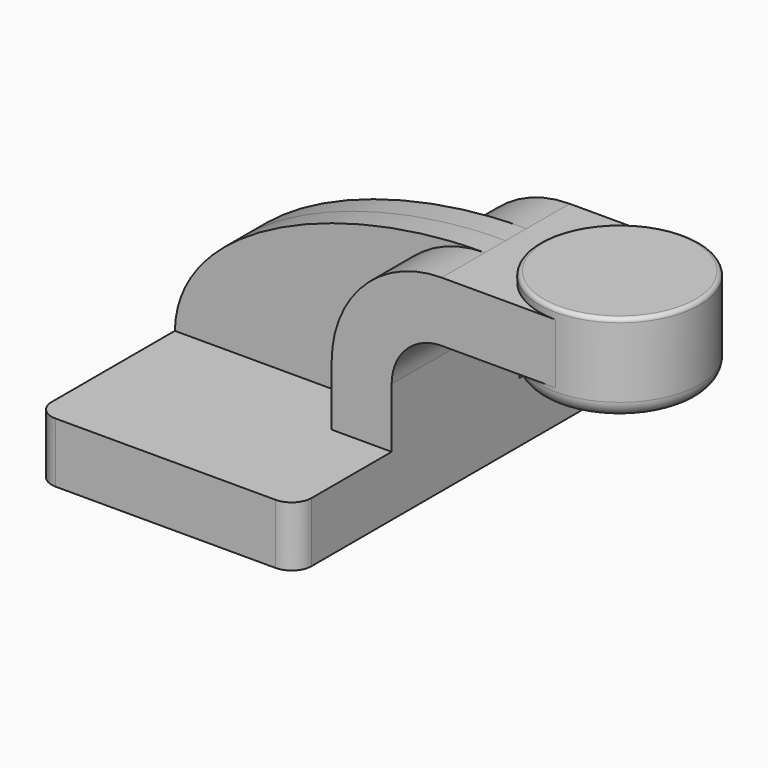
from build123d import *

# Parameters (mm, degrees)
F1_DEPTH = 63.5
F0_W     = 25.4
F0_H     = 19.05
F2_DEPTH = 25.4
F3_DEPTH = 8.255
F5_R     = 6.35
F6_R     = 1.27
F7_R     = 5.08


with BuildPart() as f1:
    # F0 (on Front) → F1 (new body, symmetric)
    with BuildSketch(Plane.XZ):
        Polygon((22.225, 9.525), (-41.275, 9.525), (-41.275, -9.525), (41.275, -9.525), (41.275, 9.525), align=None)
    extrude(amount=F1_DEPTH, both=True)

    # F0 (on Front) → F2 (join, symmetric)
    with BuildSketch(Plane.XZ):
        with Locations((80.6532034516, 53.8579252303)):
            Rectangle(F0_W, F0_H)
        with BuildLine():
            Line((22.225, 28.4579252303), (22.225, 9.525))
            Line((22.225, 9.525), (41.275, 9.525))
            Line((41.275, 9.525), (41.275, 28.4579252303))
            ThreePointArc((41.275, 28.4579252303), (45.9246798487, 39.6832453816), (57.15, 44.3329252303))
            Line((57.15, 44.3329252303), (67.9532034516, 44.3329252303))
            Line((67.9532034516, 44.3329252303), (67.9532034516, 63.3829252303))
            Line((67.9532034516, 63.3829252303), (57.15, 63.3829252303))
            ThreePointArc((57.15, 63.3829252303), (32.4542956671, 53.1536295632), (22.225, 28.4579252303))
        make_face()
    extrude(amount=F2_DEPTH, both=True)

    # F0 (on Front) → F3 (join, symmetric)
    with BuildSketch(Plane.XZ):
        with BuildLine():
            add(Edge.make_bspline(
                [(-41.275, 9.525), (-40.6863895337, 42.2286015016), (12.2434897348, 63.7291564518), (57.15, 63.3829252303)],
                knots=[0, 0, 0, 0, 112.1969551062, 112.1969551062, 112.1969551062, 112.1969551062], degree=3))
            Line((-41.275, 9.525), (22.225, 9.525))
            Line((22.225, 9.525), (22.225, 28.4579252303))
            ThreePointArc((22.225, 28.4579252303), (32.4542956671, 53.1536295632), (57.15, 63.3829252303))
        make_face()
    extrude(amount=F3_DEPTH, both=True)

    # F0 (on Front) → F4 (revolve)
    with BuildSketch(Plane.XZ):
        Polygon((93.3532034516, 66.675), (93.3532034516, 63.3829252303), (93.3532034516, 44.3329252303), (93.3532034516, 38.1), (118.7532034516, 38.1), (118.7532034516, 66.675), align=None)
    revolve(axis=Axis((93.3532034516, 0, 52.3875), (0, 0, 1)))

    # F5
    f5_edges = [f1.edges().sort_by_distance(p)[0] for p in [
        (41.275, -63.5, 0),
        (-41.275, -63.5, 0),
        (-41.275, 63.5, 0),
        (41.275, 63.5, 0),
    ]]
    fillet(f5_edges, radius=F5_R)

    # F6
    f6_edges = [f1.edges().sort_by_distance(p)[0] for p in [
        (67.953203, 0, 66.675),
    ]]
    fillet(f6_edges, radius=F6_R)

    # F7
    f7_edges = [f1.edges().sort_by_distance(p)[0] for p in [
        (67.953203, 0, 38.1),
    ]]
    fillet(f7_edges, radius=F7_R)


solid = f1.part
